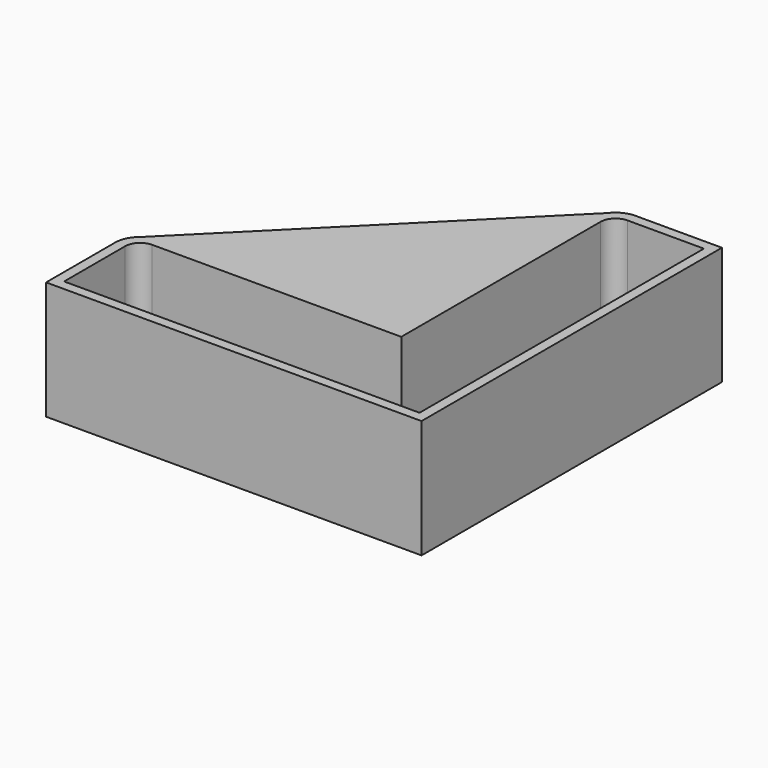
from build123d import *

# Parameters (mm, degrees)
PAD079_DEPTH            = 18.9
PAD080_DEPTH            = 7.8
FILLET021_R             = 2
BODY068_PLACEMENT_ANGLE = 180


with BuildPart() as part:
    # Sketch129 → Pad079 (new body)
    with BuildSketch(Plane.XY):
        with BuildLine():
            Line((-30, 30), (-30, -30))
            Line((-30, -30), (30, -30))
            Line((30, -30), (30, -16.2))
            ThreePointArc((30, -16.2), (28.828427, -13.371573), (26, -12.2))
            Line((26, -12.2), (-12.2, -12.2))
            Line((-12.2, -12.2), (-12.2, 26))
            ThreePointArc((-12.2, 26), (-13.371573, 28.828427), (-16.2, 30))
            Line((-16.2, 30), (-30, 30))
        make_face()
        with BuildLine():
            Line((-28.4, 28.4), (-16.2, 28.4))
            ThreePointArc((-13.8, 26), (-14.502944, 27.697056), (-16.2, 28.4))
            Line((-13.8, 26), (-13.8, -13.8))
            Line((-13.8, -13.8), (26, -13.8))
            ThreePointArc((28.4, -16.2), (27.697056, -14.502944), (26, -13.8))
            Line((28.4, -16.2), (28.4, -28.4))
            Line((28.4, -28.4), (-28.4, -28.4))
            Line((-28.4, -28.4), (-28.4, 28.4))
        make_face(mode=Mode.SUBTRACT)
    extrude(amount=PAD079_DEPTH)

    # Sketch130 → Pad080 (join)
    with BuildSketch(Plane.XY):
        Polygon((-13.8, 29.2), (-13.8, -13.8), (29.2, -13.8), align=None)
    extrude(amount=PAD080_DEPTH)

    # Fillet021
    fillet021_edges = [part.edges().sort_by_distance(p)[0] for p in [
        (7.7, 7.7, 7.8),
    ]]
    fillet(fillet021_edges, radius=FILLET021_R)


with BuildPart() as part_1:
    # Body068 placement: moved
    add(part.part.moved(Location((115.5, -115.5, 78.1))).rotate(Axis((115.5, -115.5, 78.1), (0, 1, 0)), BODY068_PLACEMENT_ANGLE))


solid = part_1.part
